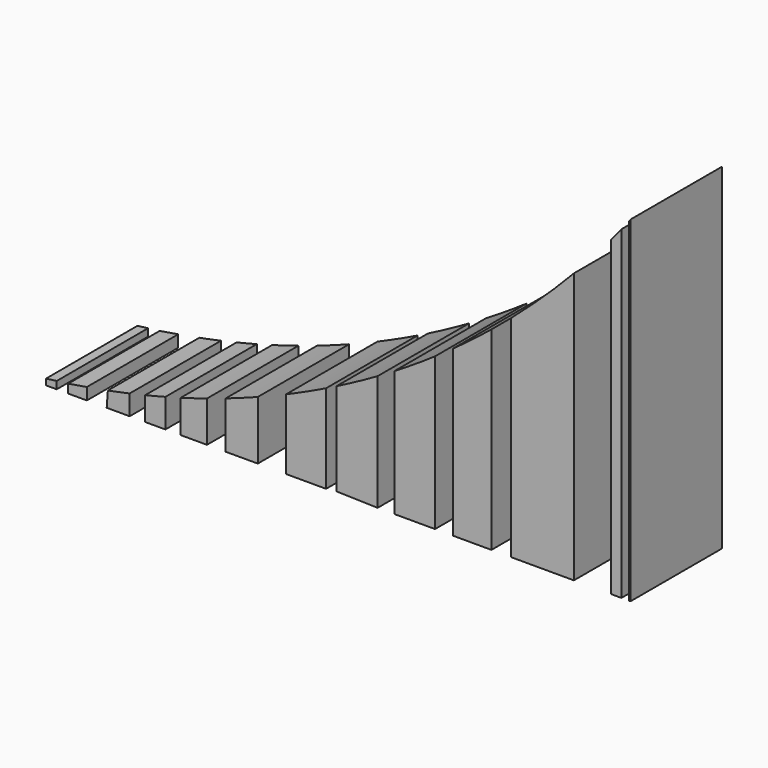
from build123d import *

# Parameters (mm, degrees)
F1_DEPTH = 25.4
F3_DEPTH = 25.4


with BuildPart() as f1:
    # F0 (on Front) → F1 (new body)
    with BuildSketch(Plane.XZ):
        with BuildLine():
            ThreePointArc((76.59304142, 57.0874288678), (8.8901100465, 2.0245590037), (-76.1267766356, -17.6664423198))
            Line((-76.1267766356, -17.6664423198), (76.59304142, -17.6664423198))
            Line((76.59304142, -17.6664423198), (76.59304142, 57.0874288678))
        make_face()
    extrude(amount=F1_DEPTH)

    # F2 (on face) → F3 (cut)
    with BuildSketch(Plane.XZ.offset(25.4)):
        with BuildLine():
            Line((50.0460880919, -17.6664423198), (50.0460880919, 29.1665339536))
            ThreePointArc((50.0460880919, 29.1665339536), (49.2865848333, 28.5160253175), (48.5237278044, 27.8694529403))
            Line((48.5237278044, 27.8694529403), (48.5237278044, -17.6664423198))
            Line((48.5237278044, -17.6664423198), (50.0460880919, -17.6664423198))
        make_face()
        with BuildLine():
            Line((72.196634241, -17.6664423198), (72.196634241, 51.6341854121))
            ThreePointArc((72.196634241, 51.6341854121), (68.171515479, 46.9752655202), (64.0001222491, 42.4468448099))
            Line((64.0001222491, 42.4468448099), (64.0001222491, -17.6664423198))
            Line((64.0001222491, -17.6664423198), (72.196634241, -17.6664423198))
        make_face()
        with BuildLine():
            Line((76.3001332536, -17.6664423198), (76.3001332536, 56.7112886619))
            ThreePointArc((76.3001332536, 56.7112886619), (75.4330330198, 55.6088876943), (74.5579600334, 54.5128046785))
            Line((74.5579600334, 54.5128046785), (74.5579600334, -17.6664423198))
            Line((74.5579600334, -17.6664423198), (76.3001332536, -17.6664423198))
        make_face()
        with BuildLine():
            Line((48.5237278044, -17.6664423198), (48.5237278044, 27.8694529403))
            ThreePointArc((48.5237278044, 27.8694529403), (47.0971842769, 26.6783666373), (45.6592600747, 25.5010446737))
            Line((45.6592600747, 25.5010446737), (45.6592600747, -17.6664423198))
            Line((45.6592600747, -17.6664423198), (48.5237278044, -17.6664423198))
        make_face()
        with BuildLine():
            Line((37.076305598, -17.6664423198), (37.076305598, 18.9311340043))
            ThreePointArc((37.076305598, 18.9311340043), (35.1080145579, 17.5285599975), (33.1223477918, 16.1506953606))
            Line((33.1223477918, 16.1506953606), (33.1223477918, -17.6664423198))
            Line((33.1223477918, -17.6664423198), (37.076305598, -17.6664423198))
        make_face()
        with BuildLine():
            Line((24.0702610463, -17.6664423198), (24.0702610463, 10.3162872077))
            ThreePointArc((24.0702610463, 10.3162872077), (22.2159399407, 9.2070463023), (20.3493403318, 8.1185941677))
            Line((20.3493403318, 8.1185941677), (20.3493403318, -17.6664423198))
            Line((20.3493403318, -17.6664423198), (24.0702610463, -17.6664423198))
        make_face()
        with BuildLine():
            Line((8.8901100465, -17.6664423198), (20.3493403318, -17.6664423198))
            Line((20.3493403318, -17.6664423198), (11.2055828795, -17.4092557281))
            Line((11.2055828795, -17.4092557281), (11.2055828795, 3.1772041735))
            ThreePointArc((11.2055828795, 3.1772041735), (10.0497736197, 2.5970102506), (8.8901100465, 2.0245590037))
            Line((8.8901100465, 2.0245590037), (8.8901100465, -17.6664423198))
        make_face()
        with BuildLine():
            Line((-6.294675277, -17.6664423198), (0, -17.6664423198))
            Line((0, -17.6664423198), (0, -2.0516548377))
            ThreePointArc((0, -2.0516548377), (-3.1360632023, -3.3621757956), (-6.294675277, -4.6173759199))
            Line((-6.294675277, -4.6173759199), (-6.294675277, -17.6664423198))
        make_face()
        with BuildLine():
            Line((-17.5933878889, -17.6664423198), (-13.4434849024, -17.6664423198))
            Line((-13.4434849024, -17.6664423198), (-13.4434849024, -7.2251867219))
            ThreePointArc((-13.4434849024, -7.2251867219), (-15.5145668718, -7.9217937766), (-17.5933878889, -8.5949543012))
            Line((-17.5933878889, -8.5949543012), (-17.5933878889, -17.6664423198))
        make_face()
        with BuildLine():
            Line((-26.8389031026, -17.6664423198), (-23.4255289083, -17.6664423198))
            Line((-23.4255289083, -17.6664423198), (-23.4266159351, -10.3468782596))
            ThreePointArc((-23.4266159351, -10.3468782596), (-25.1306262848, -10.8211239727), (-26.8389031026, -11.2797638987))
            Line((-26.8389031026, -11.2797638987), (-26.8389031026, -17.6664423198))
        make_face()
        with BuildLine():
            Line((-34.7836675341, -17.6664423198), (-31.3333794475, -17.6664423198))
            Line((-31.3333794475, -17.6664423198), (-31.3333794475, -12.4070239519))
            ThreePointArc((-31.3333794475, -12.4070239519), (-33.0567201062, -12.8090500719), (-34.7836675341, -13.1952891283))
            Line((-34.7836675341, -13.1952891283), (-34.7836675341, -17.6664423198))
        make_face()
        with BuildLine():
            Line((-44.3052338714, -17.6664423198), (-39.8894175887, -17.6664423198))
            Line((-39.8894175887, -17.6664423198), (-39.6319529987, -14.191516572))
            ThreePointArc((-39.6319529987, -14.191516572), (-41.9660191721, -14.6252294951), (-44.3052338714, -15.0302559042))
            Line((-44.3052338714, -15.0302559042), (-44.3052338714, -17.6664423198))
        make_face()
        with BuildLine():
            Line((-48.44545573, -15.7227534801), (-44.3052338714, -15.0302559042))
            ThreePointArc((-44.3052338714, -15.0302559042), (-47.6531743525, -15.5586809271), (-51.0098620749, -16.0283467695))
            Line((-51.0098620749, -16.0283467695), (-51.0098620749, -17.6664423198))
            Line((-51.0098620749, -17.6664423198), (-48.44545573, -17.6664423198))
            Line((-48.44545573, -17.6664423198), (-48.44545573, -15.7227534801))
        make_face()
        with BuildLine():
            Line((-53.3716566861, -17.6664423198), (-53.3716566861, -16.3229573596))
            ThreePointArc((-53.3716566861, -16.3229573596), (-64.7294037393, -17.3302788905), (-76.1267766356, -17.6664423198))
            Line((-76.1267766356, -17.6664423198), (-53.3716566861, -17.6664423198))
        make_face()
    extrude(amount=-F3_DEPTH, mode=Mode.SUBTRACT)


solid = f1.part
